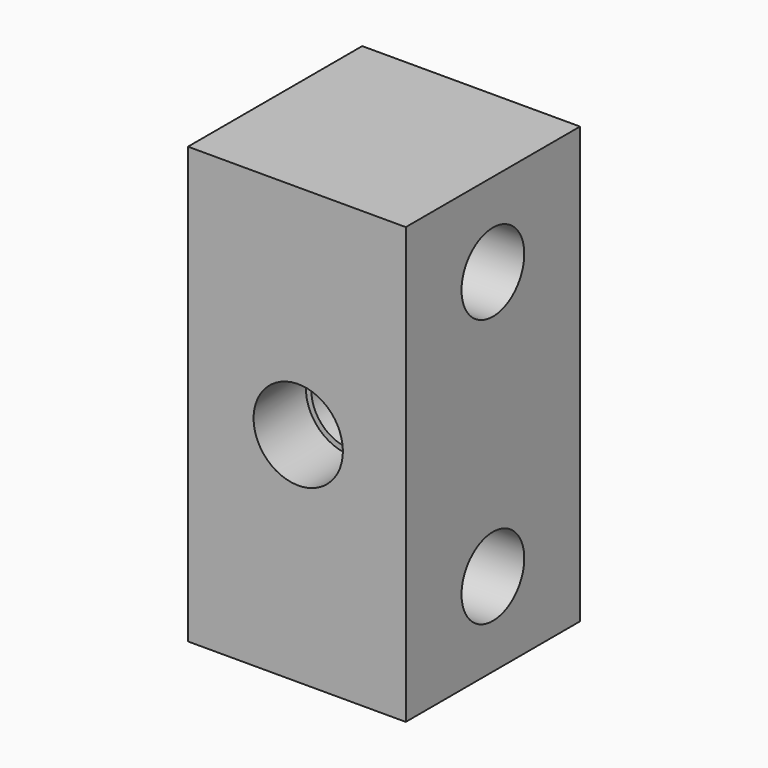
from build123d import *

# Parameters (mm, degrees)
F0_W     = 10
F0_H     = 20
F1_DEPTH = 10
F2_W     = 2.2
F2_H     = 6
F3_DEPTH = 8.2
F4_R     = 2.05
F5_DEPTH = 3
F6_D     = 3.6
F8_D     = 3.6


with BuildPart() as f1:
    # F0 (on Front) → F1 (new body)
    with BuildSketch(Plane.XZ):
        with Locations((-0.0625, 0)):
            Rectangle(F0_W, F0_H)
    extrude(amount=F1_DEPTH)

    # F2 (on face) → F3 (cut)
    with BuildSketch(Plane(origin=(0, 0, 0), x_dir=(-1, 0, 0), z_dir=(0, 1, 0))):
        with Locations((0, 6.15)):
            Rectangle(F2_W, F2_H)
        with Locations((0, -6.15)):
            Rectangle(F2_W, F2_H)
    extrude(amount=-F3_DEPTH, mode=Mode.SUBTRACT)

    # F4 (on face) → F5 (cut)
    with BuildSketch(Plane.XZ.offset(10)):
        Circle(F4_R)
    extrude(amount=-F5_DEPTH, mode=Mode.SUBTRACT)

    # F6 (through all)
    with Locations(Plane(origin=(0, 0, 0), x_dir=(1, 0, 0), z_dir=(0, 1, 0))):
        with Locations((0, 0)):
            Hole(F6_D / 2)

    # F8 (through all)
    with Locations(Plane.YZ.offset(4.9375)):
        with Locations((-5, -6.15), (-5, 6.15)):
            Hole(F8_D / 2)


solid = f1.part
